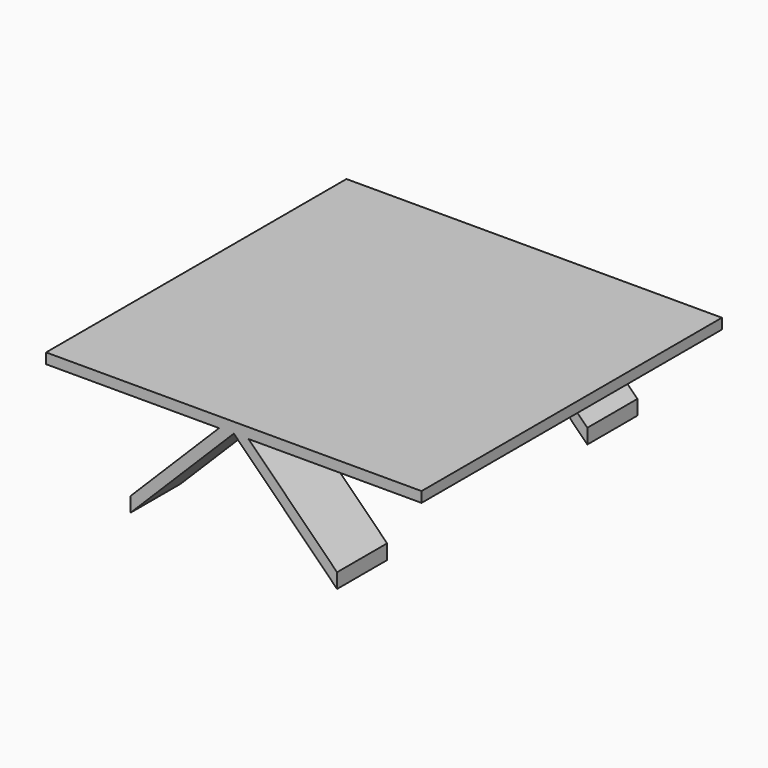
from build123d import *

# Parameters (mm, degrees)
F0_W     = 914.4
F0_H     = 25.4
F2_DEPTH = 457.2
F3_DEPTH = 457.2
F5_DEPTH = 304.8


with BuildPart() as f2:
    # F0 (on Front) → F2 (new body, symmetric)
    with BuildSketch(Plane.XZ):
        with Locations((0, 12.7)):
            Rectangle(F0_W, F0_H)
    extrude(amount=F2_DEPTH, both=True)

    # F1 (on Front) → F3 (join, symmetric)
    with BuildSketch(Plane.XZ):
        Polygon((0, 0), (-35.921024, 0), (-251.447171, -215.526147), (-251.447171, -251.447171), align=None)
        Polygon((35.921024, 0), (0, 0), (251.447171, -251.447171), (251.447171, -215.526147), align=None)
    extrude(amount=F3_DEPTH, both=True)

    # F4 (on Front) → F5 (cut, symmetric)
    with BuildSketch(Plane.XZ):
        Polygon((0, 0), (-35.921024, 0), (-251.447171, -215.526147), (-251.447171, -251.447171), align=None)
        Polygon((35.921024, 0), (0, 0), (251.447171, -251.447171), (251.447171, -215.526147), align=None)
    extrude(amount=F5_DEPTH, both=True, mode=Mode.SUBTRACT)


solid = f2.part
